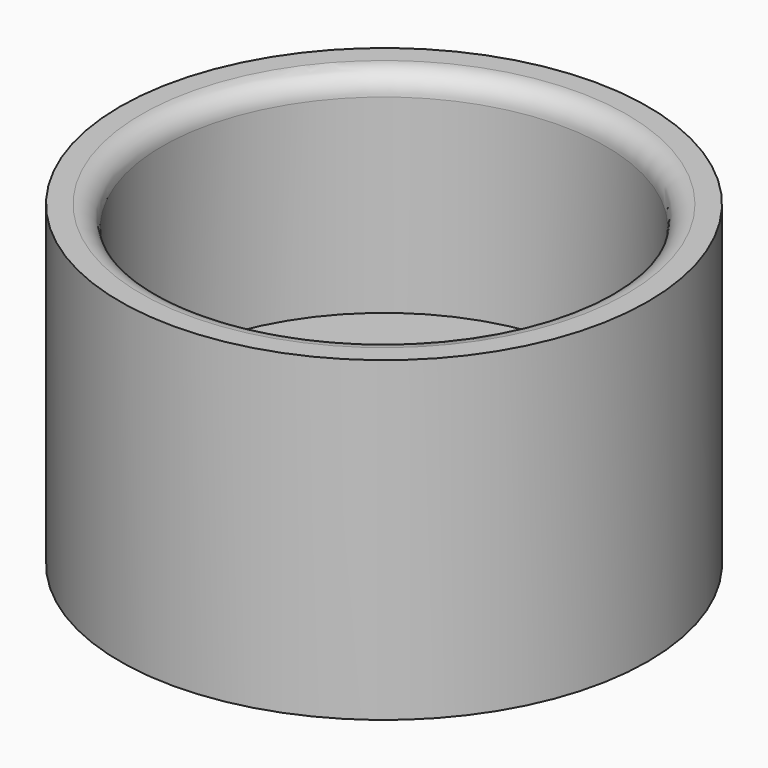
from build123d import *

# Parameters (mm, degrees)
TUBE_R         = 25
TUBE_R_2       = 21
TUBE_DEPTH     = 20
FILLET_R       = 2
CYLINDER_R     = 25
CYLINDER_DEPTH = 10


with BuildPart() as fillet_body:
    # Tube → Tube (new body)
    with BuildSketch(Plane.XY.offset(10)):
        Circle(TUBE_R)
        Circle(TUBE_R_2, mode=Mode.SUBTRACT)
    extrude(amount=TUBE_DEPTH)

    # Fillet
    fillet_edges = [fillet_body.edges().sort_by_distance(p)[0] for p in [
        (-21, 0, 30),
    ]]
    fillet(fillet_edges, radius=FILLET_R)


with BuildPart() as fusion:
    # Cylinder → Cylinder (new body)
    with BuildSketch(Plane.XY):
        Circle(CYLINDER_R)
    extrude(amount=CYLINDER_DEPTH)

    # Fusion: union Fillet body
    add(fillet_body.part)


solid = fusion.part
